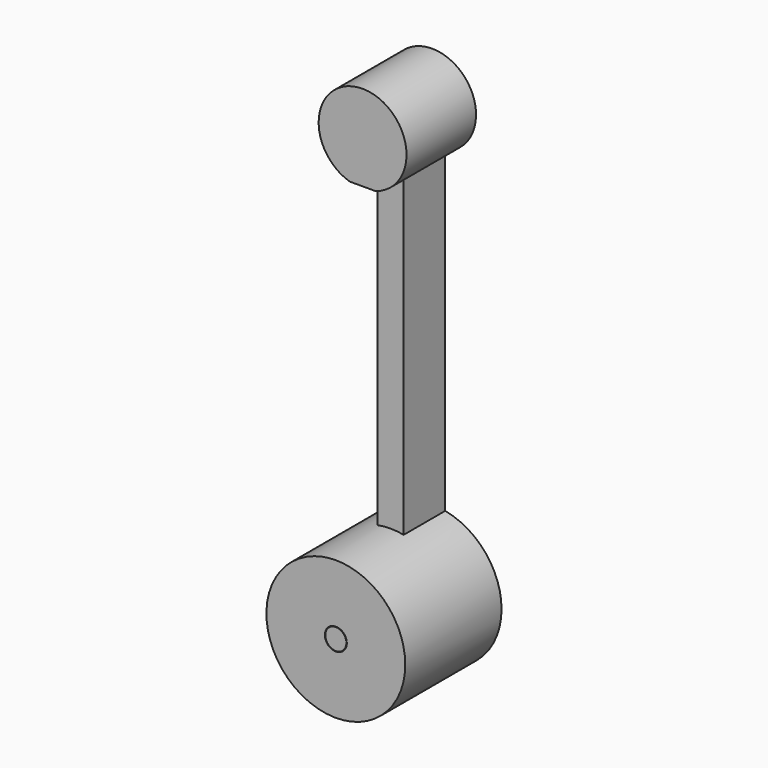
from build123d import *

# Parameters (mm, degrees)
F0_R     = 0.345
F2_DEPTH = 1.89
F3_DEPTH = 1.63
F4_DEPTH = 2.73
F5_DEPTH = 1.89
F6_R     = 0.3306910567
F7_DEPTH = 0.19


with BuildPart() as f2:
    # F0 (on Front) → F2 (new body)
    with BuildSketch(Plane.XZ):
        with BuildLine():
            ThreePointArc((-37.977961816, 9.961612202), (-38.9555467493, 6.1401719986), (-35.3869509856, 7.8207081646))
            ThreePointArc((-35.3869509856, 7.8207081646), (-35.8864148197, 9.2093039283), (-37.1559401553, 9.961612202))
            ThreePointArc((-37.1559401553, 9.961612202), (-37.5669509856, 10.0007081646), (-37.977961816, 9.961612202))
        make_face()
        with Locations((-37.5669509856, 7.8207081646)):
            Circle(F0_R, mode=Mode.SUBTRACT)
    extrude(amount=F2_DEPTH)

    # F1 (on face) → F3 (join)
    with BuildSketch(Plane.XZ):
        with BuildLine():
            Line((-37.1559401553, 19.9101027101), (-37.977961816, 19.9101027101))
            Line((-37.977961816, 19.9101027101), (-37.977961816, 9.961612202))
            ThreePointArc((-37.977961816, 9.961612202), (-37.5669509856, 10.0007081646), (-37.1559401553, 9.961612202))
            Line((-37.1559401553, 9.961612202), (-37.1559401553, 19.9101027101))
        make_face()
    extrude(amount=F3_DEPTH)

    # F1 (on face) → F4 (join)
    with BuildSketch(Plane.XZ):
        with BuildLine():
            Line((-37.977961816, 19.911612202), (-37.977961816, 19.9101027101))
            Line((-37.977961816, 19.9101027101), (-37.1559401553, 19.9101027101))
            Line((-37.1559401553, 19.9101027101), (-37.1559401553, 19.911612202))
            ThreePointArc((-37.1559401553, 19.911612202), (-37.5669509856, 22.6089846236), (-37.977961816, 19.911612202))
        make_face()
    extrude(amount=F4_DEPTH)

    # F5 (add): a face of the model
    f5_faces = [f2.faces().sort_by_distance(p)[0] for p in [
        (-39.6852912743, -1.89, 7.8207081646),
    ]]
    extrude(f5_faces, amount=F5_DEPTH)


with BuildPart() as f7:
    # F6 (on face) → F7 (new body)
    with BuildSketch(Plane.XZ.offset(3.78)):
        with Locations((-37.5669509856, 7.8207081646)):
            Circle(F6_R)
    extrude(amount=-F7_DEPTH)


solid = Compound([f2.part, f7.part])
